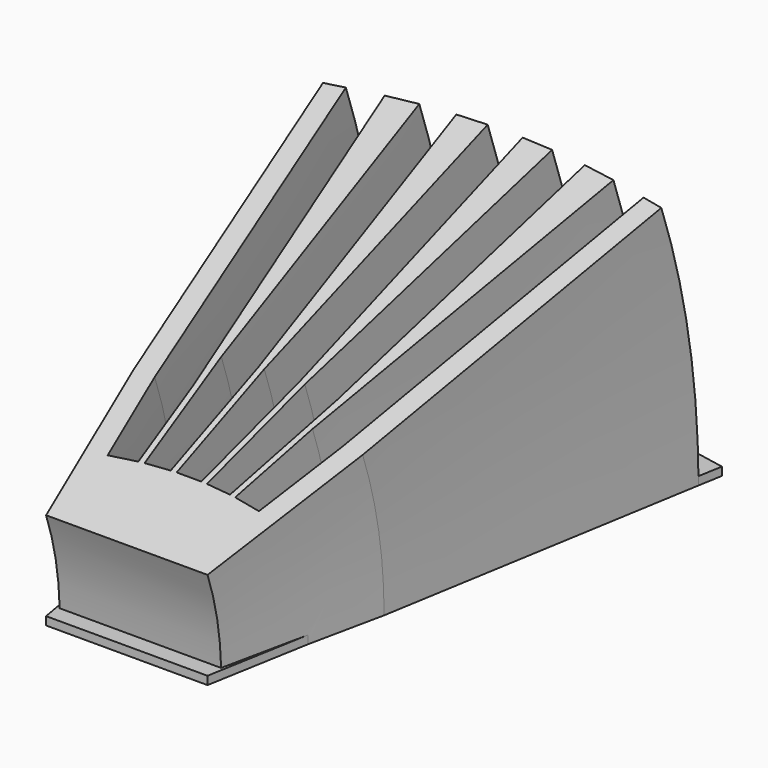
from build123d import *

# Parameters (mm, degrees)
REVOLUTION_ANGLE = 20
PAD_DEPTH        = 2


with BuildPart() as part:
    # Sketch → Revolution (revolve)
    with BuildSketch(Plane.XY):
        Polygon((-18.372564, 87.184066), (-22.823988, 108.307586), (-36.154546, 187.797393), (-41.085685, 186.970434), (-27.854335, 108.072199), (-19.606168, 68.93184), (19.606168, 68.93184), (27.854335, 108.072199), (41.085685, 186.970434), (36.154546, 187.797393), (22.823988, 108.307586), (18.372564, 87.184066), (11.764837, 88.292191), (14.448033, 109.712246), (27.778591, 189.202053), (20.095372, 190.164496), (14.105719, 118.233415), (10.376892, 88.466053), (4.397586, 88.963946), (5.643392, 118.938068), (11.633046, 190.869148), (4.245807, 191.176182), (4.245807, 118.996155), (3, 89.022034), (-3, 89.022034), (-4.245807, 118.996155), (-4.245807, 191.176182), (-11.633046, 190.869148), (-5.643392, 118.938068), (-4.397586, 88.963946), (-10.376892, 88.466053), (-14.105719, 118.233415), (-20.095372, 190.164496), (-27.778591, 189.202053), (-14.448033, 109.712246), (-11.764837, 88.292191), align=None)
    revolve(axis=Axis((0, 0, 0), (1, 0, 0)), revolution_arc=REVOLUTION_ANGLE)

    # Sketch001 → Pad (new body)
    with BuildSketch(Plane.XY):
        with BuildLine():
            ThreePointArc((42.112464, 192.811715), (0, 197.35708), (-42.112464, 192.811715))
            Line((-42.112464, 192.811715), (-19.606168, 64.774741))
            Line((-19.606168, 64.774741), (19.606168, 64.774741))
            Line((19.606168, 64.774741), (42.112464, 192.811715))
        make_face()
    extrude(amount=PAD_DEPTH)


solid = part.part
